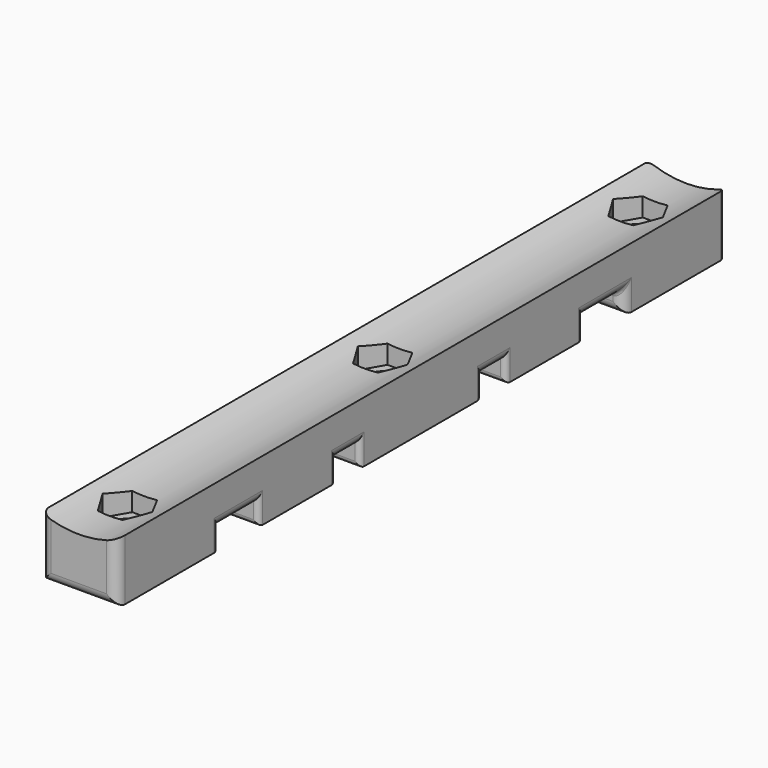
from build123d import *

# Parameters (mm, degrees)
SKETCH_W        = 15
SKETCH_H        = 150
SKETCH_R        = 2.75
PAD_DEPTH       = 12
SKETCH003_W     = 10
SKETCH003_H     = 4
SKETCH003_W_2   = 6
POCKET002_DEPTH = 15.001
SKETCH004_R     = 20
POCKET003_DEPTH = 150.001
POCKET_DEPTH    = 5
FILLET_R        = 2
FILLET001_R     = 2
FILLET002_R     = 1
FILLET003_R     = 1
FILLET004_R     = 1
FILLET005_R     = 1
FILLET006_R     = 1
FILLET007_R     = 2


with BuildPart() as part:
    # Sketch → Pad (new body)
    with BuildSketch(Plane.XY):
        with Locations((7.5, 75)):
            Rectangle(SKETCH_W, SKETCH_H)
        with Locations((7.5, 138)):
            Circle(SKETCH_R, mode=Mode.SUBTRACT)
        with Locations((7.5, 75)):
            Circle(SKETCH_R, mode=Mode.SUBTRACT)
        with Locations((7.5, 12)):
            Circle(SKETCH_R, mode=Mode.SUBTRACT)
    extrude(amount=PAD_DEPTH)

    # Sketch003 → Pocket002 (cut, through all)
    with BuildSketch(Plane.YZ):
        with Locations((30, 2)):
            Rectangle(SKETCH003_W, SKETCH003_H)
        with Locations((57, 2)):
            Rectangle(SKETCH003_W_2, SKETCH003_H)
        with Locations((120, 2)):
            Rectangle(SKETCH003_W, SKETCH003_H)
        with Locations((93, 2)):
            Rectangle(SKETCH003_W_2, SKETCH003_H)
    extrude(amount=POCKET002_DEPTH, mode=Mode.SUBTRACT)

    # Sketch004 → Pocket003 (cut, through all)
    with BuildSketch(Plane.XZ):
        with Locations((7.5, 30.540496)):
            Circle(SKETCH004_R)
    extrude(amount=-POCKET003_DEPTH, mode=Mode.SUBTRACT)

    # Sketch005 → Pocket (cut)
    with BuildSketch(Plane.XY.offset(12)):
        Polygon((9.953739, 133.75), (12.407477, 138), (9.953739, 142.25), (5.046261, 142.25), (2.592523, 138), (5.046261, 133.75), align=None)
        Polygon((9.953739, 70.75), (12.407477, 75), (9.953739, 79.25), (5.046261, 79.25), (2.592523, 75), (5.046261, 70.75), align=None)
        Polygon((9.953739, 16.25), (5.046261, 16.25), (2.592523, 12), (5.046261, 7.75), (9.953739, 7.75), (12.407477, 12), align=None)
    extrude(amount=-POCKET_DEPTH, mode=Mode.SUBTRACT)

    # Fillet
    fillet_edges = [part.edges().sort_by_distance(p)[0] for p in [
        (15, 120, 4),
        (0, 120, 4),
        (15, 93, 4),
        (0, 93, 4),
        (15, 57, 4),
        (0, 57, 4),
        (15, 30, 4),
        (0, 30, 4),
    ]]
    fillet(fillet_edges, radius=FILLET_R)

    # Fillet001
    fillet001_edges = [part.edges().sort_by_distance(p)[0] for p in [
        (15, 125, 2),
        (7.5, 125, 0),
        (0, 125, 2),
    ]]
    fillet(fillet001_edges, radius=FILLET001_R)

    # Fillet002
    fillet002_edges = [part.edges().sort_by_distance(p)[0] for p in [
        (7.5, 125, 4),
    ]]
    fillet(fillet002_edges, radius=FILLET002_R)

    # Fillet003
    fillet003_edges = [part.edges().sort_by_distance(p)[0] for p in [
        (0, 25, 2),
        (7.5, 25, 0),
        (15, 25, 2),
    ]]
    fillet(fillet003_edges, radius=FILLET003_R)

    # Fillet004
    fillet004_edges = [part.edges().sort_by_distance(p)[0] for p in [
        (0, 54, 2),
        (7.5, 54, 0),
        (15, 54, 2),
        (0, 90, 2),
        (7.5, 90, 0),
        (15, 90, 2),
        (0, 115, 2),
        (7.5, 115, 0),
        (15, 115, 2),
    ]]
    fillet(fillet004_edges, radius=FILLET004_R)

    # Fillet005
    fillet005_edges = [part.edges().sort_by_distance(p)[0] for p in [
        (15, 96, 2),
        (7.5, 96, 0),
        (0, 96, 2),
        (15, 60, 2),
        (7.5, 60, 0),
        (0, 60, 2),
        (15, 35, 2),
        (7.5, 35, 0),
        (0, 35, 2),
    ]]
    fillet(fillet005_edges, radius=FILLET005_R)

    # Fillet006
    fillet006_edges = [part.edges().sort_by_distance(p)[0] for p in [
        (15, 150, 6),
        (7.5, 150, 0),
        (0, 150, 6),
    ]]
    fillet(fillet006_edges, radius=FILLET006_R)

    # Fillet007
    fillet007_edges = [part.edges().sort_by_distance(p)[0] for p in [
        (0, 0, 6),
        (7.5, 0, 0),
        (15, 0, 6),
    ]]
    fillet(fillet007_edges, radius=FILLET007_R)


solid = part.part
